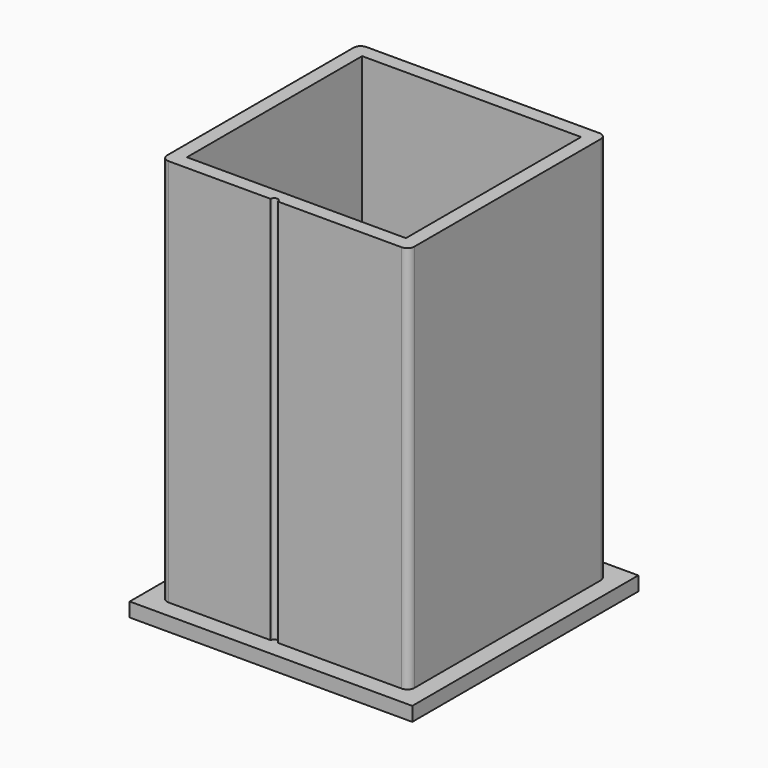
from build123d import *

# Parameters (mm, degrees)
F0_W     = 40
F0_H     = 40
F1_DEPTH = 2
F2_W     = 35
F2_H     = 35
F3_DEPTH = 55
F4_W     = 31
F4_H     = 31
F5_DEPTH = 57.001
F6_R     = 1
F8_DEPTH = 55


with BuildPart() as f1:
    # F0 (on Top) → F1 (new body)
    with BuildSketch(Plane.XY):
        with Locations((-3.9790219205, -2.1009873599)):
            Rectangle(F0_W, F0_H)
    extrude(amount=F1_DEPTH)

    # F2 (on face) → F3 (join)
    with BuildSketch(Plane.XY.offset(2)):
        with Locations((-3.9790219205, -2.1009873599)):
            Rectangle(F2_W, F2_H)
    extrude(amount=F3_DEPTH)

    # F4 (on face) → F5 (cut, through all)
    with BuildSketch(Plane.XY.offset(57)):
        with Locations((-3.9790219205, -2.1009873599)):
            Rectangle(F4_W, F4_H)
    extrude(amount=-F5_DEPTH, mode=Mode.SUBTRACT)

    # F6
    f6_edges = [f1.edges().sort_by_distance(p)[0] for p in [
        (13.520978, -19.600987, 29.5),
        (13.520978, 15.399013, 29.5),
        (-21.479022, -19.600987, 29.5),
        (-21.479022, 15.399013, 29.5),
    ]]
    fillet(f6_edges, radius=F6_R)

    # F7 (on face) → F8 (cut, through all)
    with BuildSketch(Plane.XY.offset(57)):
        with BuildLine():
            Line((-6.0118580349, -19.6009873599), (-5.0118580349, -19.6009873599))
            ThreePointArc((-5.0118580349, -19.6009873599), (-5.5118580349, -19.1009873599), (-6.0118580349, -19.6009873599))
        make_face()
    extrude(amount=-F8_DEPTH, mode=Mode.SUBTRACT)


solid = f1.part
